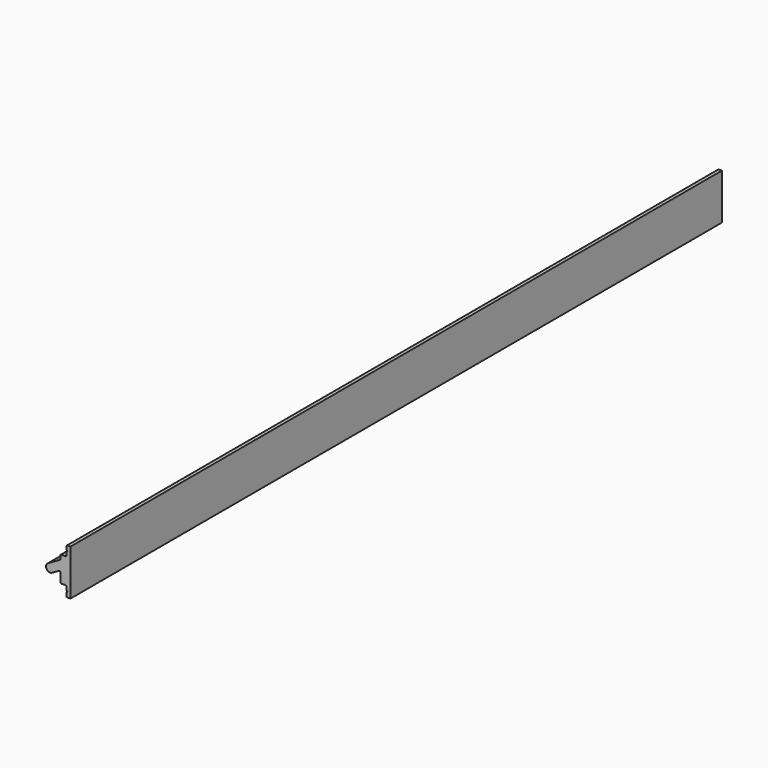
from build123d import *

# Parameters (mm, degrees)
F1_DEPTH = 800


with BuildPart() as f1:
    # F0 (on Front) → F1 (new body)
    with BuildSketch(Plane.XZ):
        with BuildLine():
            ThreePointArc((-10, -29.030345), (-10.133975, -29.530345), (-10.5, -29.89637))
            Line((-10.5, -29.89637), (-22, -36.535898))
            ThreePointArc((-22, -36.535898), (-23.464102, -42), (-18, -43.464102))
            Line((-18, -43.464102), (-11.5, -39.711325))
            ThreePointArc((-11.5, -39.711325), (-10.5, -39.711325), (-10, -40.57735))
            Line((-10, -40.57735), (-10, -49))
            ThreePointArc((-10, -49), (-9.707107, -49.707107), (-9, -50))
            Line((-9, -50), (-5, -50))
            ThreePointArc((-5, -50), (-4.292893, -50.292893), (-4, -51))
            Line((-4, -51), (-4, -54))
            Line((-4, -54), (-3, -55))
            Line((-3, -55), (-4, -56))
            Line((-4, -56), (-4, -59))
            ThreePointArc((-4, -59), (-3.707107, -59.707107), (-3, -60))
            Line((-3, -60), (0, -60))
            Line((0, -60), (0, -15))
            Line((0, -15), (-3, -15))
            ThreePointArc((-3, -15), (-3.707107, -15.292893), (-4, -16))
            Line((-4, -16), (-4, -19))
            Line((-4, -19), (-3, -20))
            Line((-3, -20), (-4, -21))
            Line((-4, -21), (-4, -24))
            ThreePointArc((-4, -24), (-4.292893, -24.707107), (-5, -25))
            Line((-5, -25), (-9, -25))
            ThreePointArc((-9, -25), (-9.707107, -25.292893), (-10, -26))
            Line((-10, -26), (-10, -29.030345))
        make_face()
    extrude(amount=-F1_DEPTH)


solid = f1.part
